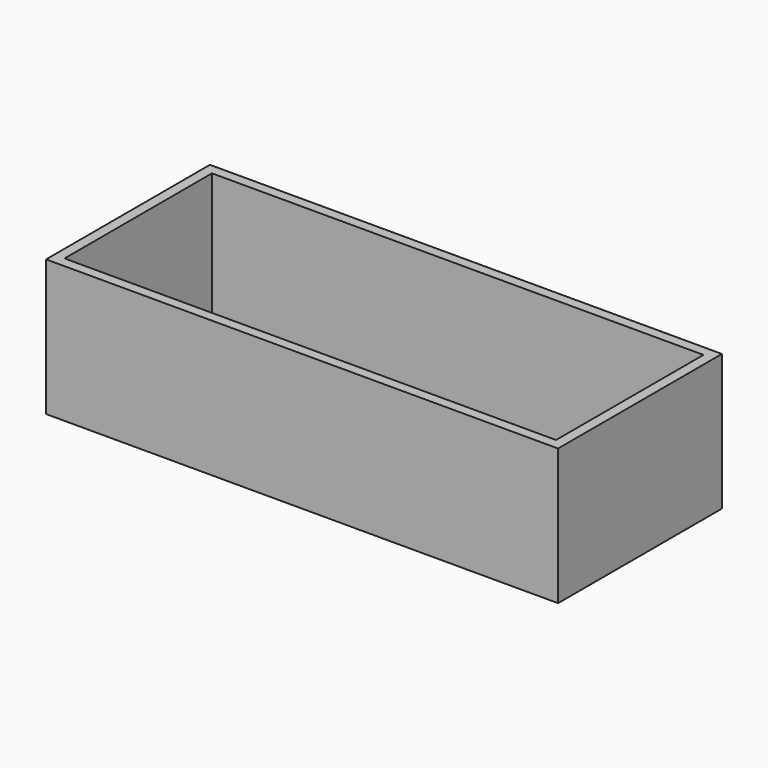
from build123d import *

# Parameters (mm, degrees)
F1_DEPTH = 2660


with BuildPart() as f1:
    # F0 (on Top) → F1 (new body)
    with BuildSketch(Plane.XY):
        Polygon((-9566.179518, 0), (-9566.179518, -2000), (433.820482, -2000), (433.820482, 2000), (-9566.179518, 2000), align=None)
        Polygon((-9366.179518, -1800), (-9366.179518, 0), (-9366.179518, 1800), (233.820482, 1800), (233.820482, -1800), align=None, mode=Mode.SUBTRACT)
        Polygon((-9566.179518, 0), (-9566.179518, -2000), (433.820482, -2000), (433.820482, 2000), (-9566.179518, 2000), align=None)
        Polygon((-9366.179518, -1800), (-9366.179518, 0), (-9366.179518, 1800), (233.820482, 1800), (233.820482, -1800), align=None, mode=Mode.SUBTRACT)
    extrude(amount=F1_DEPTH)


solid = f1.part
